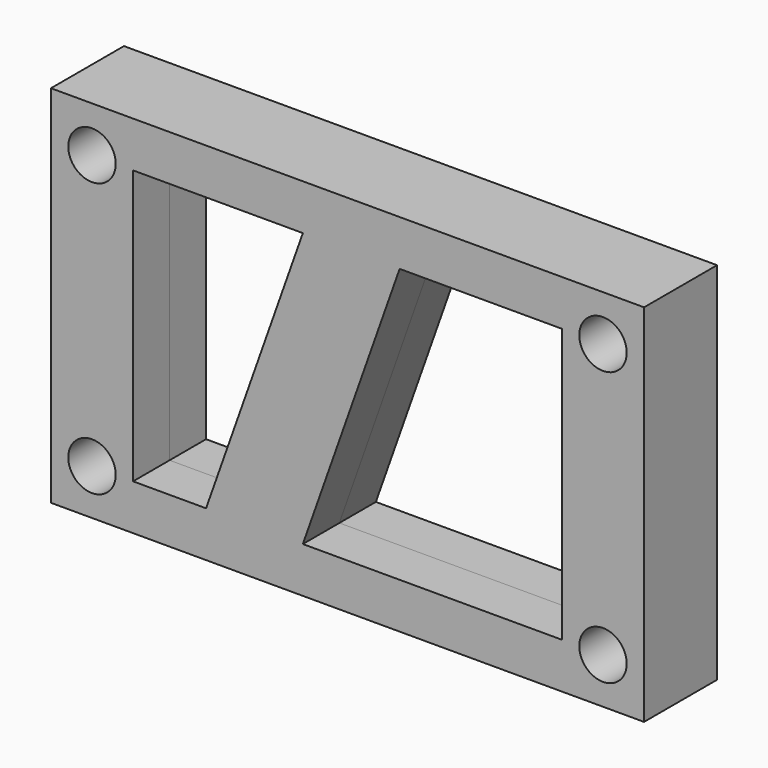
from build123d import *

# Parameters (mm, degrees)
F0_W          = 65
F0_H          = 40
F0_R          = 2.6
F1_DEPTH      = 5
F1_DEPTH_BACK = 5


with BuildPart() as f1:
    # F0 (on Front) → F1 (new body, two sides)
    with BuildSketch(Plane.XZ) as f1_sk:
        Rectangle(F0_W, F0_H)
        with Locations((-28, -15)):
            Circle(F0_R, mode=Mode.SUBTRACT)
        with Locations((28, -15)):
            Circle(F0_R, mode=Mode.SUBTRACT)
        Polygon((-23.5, -15), (-23.5, 15), (-4.893398, 15), (-15.5, -15), align=None, mode=Mode.SUBTRACT)
        with Locations((-28, 15)):
            Circle(F0_R, mode=Mode.SUBTRACT)
        Polygon((23.5, -15), (-4.893398, -15), (5.713203, 15), (23.5, 15), align=None, mode=Mode.SUBTRACT)
        with Locations((28, 15)):
            Circle(F0_R, mode=Mode.SUBTRACT)
    extrude(amount=F1_DEPTH)
    extrude(f1_sk.sketch, amount=-F1_DEPTH_BACK)


solid = f1.part
